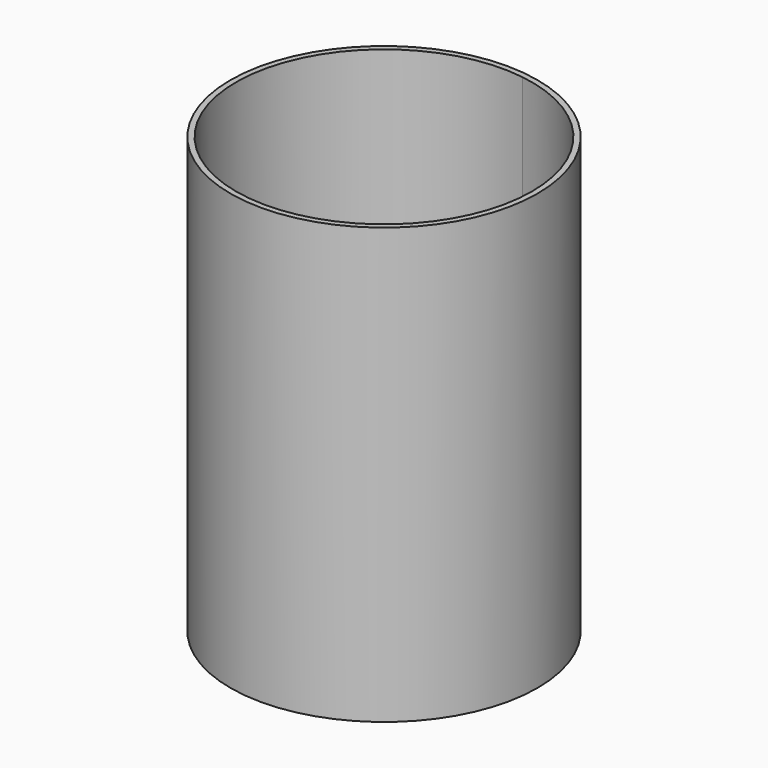
from build123d import *

# Parameters (mm, degrees)
F0_R     = 152.4
F1_DEPTH = 431.8
F3_DEPTH = 406.4


with BuildPart() as f1:
    # F0 (on Top) → F1 (new body)
    with BuildSketch(Plane.XY):
        Circle(F0_R)
    extrude(amount=F1_DEPTH)

    # F2 (on face) → F3 (cut)
    with BuildSketch(Plane.XY.offset(431.8)):
        with BuildLine():
            ThreePointArc((146.785542, 0), (111.044888, 95.994939), (21.227832, 145.242468))
            ThreePointArc((21.227832, 145.242468), (-111.044888, -95.994939), (146.785542, 0))
        make_face()
    extrude(amount=-F3_DEPTH, mode=Mode.SUBTRACT)


solid = f1.part
